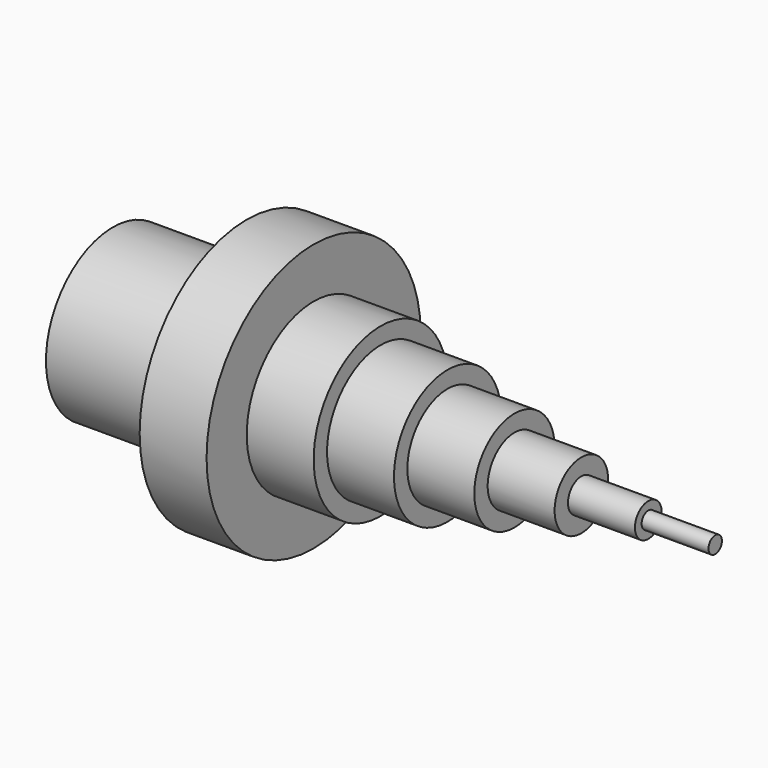
from build123d import *


with BuildPart() as f1:
    # F0 (on Top) → F1 (revolve)
    with BuildSketch(Plane.XY):
        Polygon((-61.567652, 25), (-61.567652, 20), (-21.567652, 20), (-21.567652, 0), (118.432348, 0), (118.432348, 2.5), (98.432348, 2.5), (98.432348, 5), (78.432348, 5), (78.432348, 10), (58.432348, 10), (58.432348, 15), (38.432348, 15), (38.432348, 20), (18.432348, 20), (18.432348, 25), (-1.567652, 25), (-1.567652, 40), (-21.567652, 40), (-21.567652, 25), align=None)
    revolve(axis=Axis((48.432348, 0, 0), (-1, 0, 0)))


solid = f1.part
